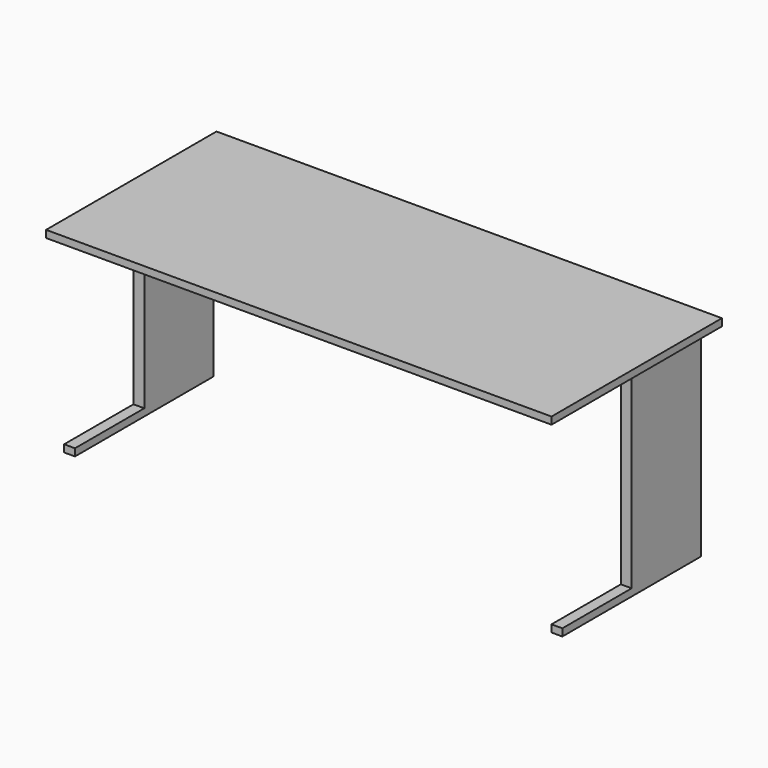
from build123d import *

# Parameters (mm, degrees)
F0_W     = 1778
F0_H     = 749.3
F1_DEPTH = 25.4
F2_W     = 38.1
F2_H     = 304.8
F3_DEPTH = 660.4
F5_W     = 38.1
F5_H     = 609.6
F4_W     = 38.1
F4_H     = 609.6
F6_DEPTH = 25.4
F7_W     = 25.4
F7_H     = 203.2
F8_DEPTH = 1676.4


with BuildPart() as f1:
    # F0 (on Top) → F1 (new body)
    with BuildSketch(Plane.XY):
        Rectangle(F0_W, F0_H)
    extrude(amount=-F1_DEPTH)

    # F2 (on face) → F3 (join)
    with BuildSketch(Plane(origin=(0, 0, -25.4), x_dir=(1, 0, 0), z_dir=(0, 0, -1))):
        with Locations((857.25, -146.05)):
            Rectangle(F2_W, F2_H)
        with Locations((-857.25, -146.05)):
            Rectangle(F2_W, F2_H)
    extrude(amount=F3_DEPTH)

    # F5 (on face) + F4 (on face) → F6 (join)
    with BuildSketch(Plane(origin=(0, 0, -685.8), x_dir=(1, 0, 0), z_dir=(0, 0, -1))):
        with Locations((-857.25, 6.35)):
            Rectangle(F5_W, F5_H)
    with BuildSketch(Plane(origin=(0, 0, -685.8), x_dir=(1, 0, 0), z_dir=(0, 0, -1))):
        with Locations((857.25, 6.35)):
            Rectangle(F4_W, F4_H)
    extrude(amount=F6_DEPTH)

    # F7 (on face) → F8 (join, through all)
    with BuildSketch(Plane.YZ.offset(-838.2)):
        with Locations((285.75, -127)):
            Rectangle(F7_W, F7_H)
    extrude(amount=F8_DEPTH)


solid = f1.part
